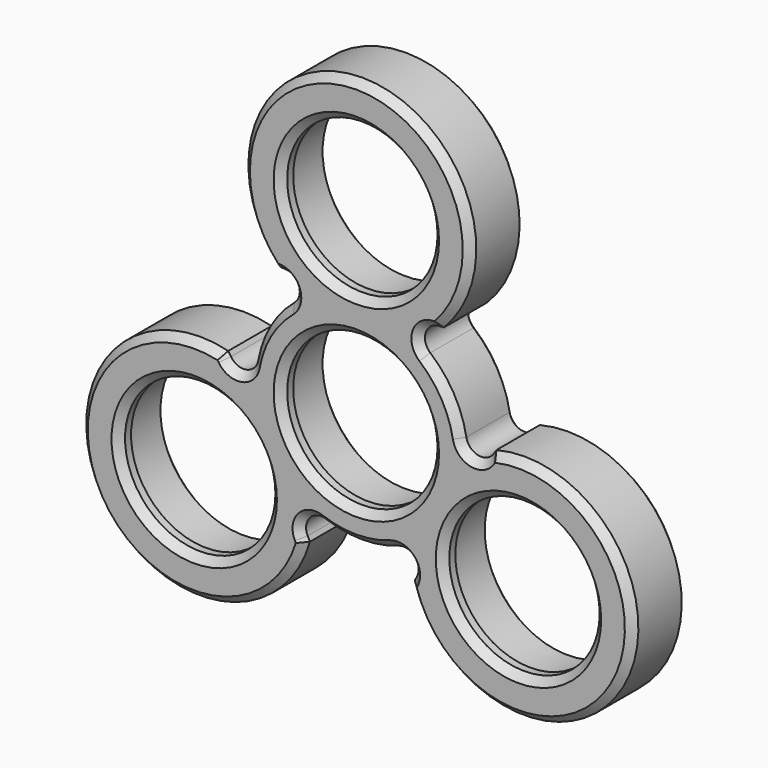
from build123d import *

# Parameters (mm, degrees)
F0_R     = 11.05
F1_DEPTH = 9.2
F2_R     = 11.05
F2_R_2   = 10
F3_DEPTH = 2
F4_R     = 2
F6_DEPTH = 25
F7_SIZE  = 1
F8_SIZE  = 1


with BuildPart() as f1:
    # F0 (on Front) → F1 (new body)
    with BuildSketch(Plane.XZ):
        with BuildLine():
            Line((-10.8594483096, 14.3268800737), (-2.4829795671, 13.8288579597))
            ThreePointArc((-2.4829795671, 13.8288579597), (-12.1676569232, 7.025), (-13.217632082, -4.7641055977))
            Line((-13.217632082, -4.7641055977), (-17.8371662556, 2.2411180703))
            ThreePointArc((-17.8371662556, 2.2411180703), (-34.6870755728, -20.0265924193), (-6.977717946, -16.5679981441))
            Line((-6.977717946, -16.5679981441), (-10.7346525149, -9.064752362))
            ThreePointArc((-10.7346525149, -9.064752362), (0, -14.05), (10.7346525149, -9.064752362))
            Line((10.7346525149, -9.064752362), (6.977717946, -16.5679981441))
            ThreePointArc((6.977717946, -16.5679981441), (34.6870755728, -20.0265924193), (17.8371662556, 2.2411180703))
            Line((17.8371662556, 2.2411180703), (13.217632082, -4.7641055977))
            ThreePointArc((13.217632082, -4.7641055977), (12.1676569232, 7.025), (2.4829795671, 13.8288579597))
            Line((2.4829795671, 13.8288579597), (10.8594483096, 14.3268800737))
            ThreePointArc((10.8594483096, 14.3268800737), (0, 40.0531848387), (-10.8594483096, 14.3268800737))
        make_face()
        with Locations((-21.5623582929, -12.4490333648)):
            Circle(F0_R, mode=Mode.SUBTRACT)
        with Locations((21.5623582929, -12.4490333648)):
            Circle(F0_R, mode=Mode.SUBTRACT)
        Circle(F0_R, mode=Mode.SUBTRACT)
        with Locations((0, 24.8980667296)):
            Circle(F0_R, mode=Mode.SUBTRACT)
    extrude(amount=F1_DEPTH)

    # F2 (on face) → F3 (join)
    with BuildSketch(Plane.XZ.offset(9.2)):
        with Locations((0, 24.8980667296)):
            Circle(F2_R)
        with Locations((0, 24.8980667296)):
            Circle(F2_R_2, mode=Mode.SUBTRACT)
        with Locations((-21.5623582929, -12.4490333648)):
            Circle(F2_R)
        with Locations((-21.5623582929, -12.4490333648)):
            Circle(F2_R_2, mode=Mode.SUBTRACT)
        with Locations((21.5623582929, -12.4490333648)):
            Circle(F2_R)
        with Locations((21.5623582929, -12.4490333648)):
            Circle(F2_R_2, mode=Mode.SUBTRACT)
        Circle(F2_R)
        Circle(F2_R_2, mode=Mode.SUBTRACT)
    extrude(amount=-F3_DEPTH)

    # F4
    f4_edges = [f1.edges().sort_by_distance(p)[0] for p in [
        (2.48298, -4.6, 13.828858),
        (-2.48298, -4.6, 13.828858),
        (-13.217632, -4.6, -4.764106),
        (-10.734653, -4.6, -9.064752),
        (10.734653, -4.6, -9.064752),
        (13.217632, -4.6, -4.764106),
    ]]
    fillet(f4_edges, radius=F4_R)

    # F5 (on face) → F6 (cut)
    with BuildSketch(Plane.XZ.offset(9.2)):
        with BuildLine():
            Line((0, 18.9108662307), (1.7659365324, 21.1738422452))
            ThreePointArc((1.7659365324, 21.1738422452), (0, 24.9152206672), (-1.7659365324, 21.1738422452))
            Line((-1.7659365324, 21.1738422452), (0, 18.9108662307))
        make_face()
        with BuildLine():
            Line((-16.3772905634, -9.4554331154), (-19.2200535463, -9.057575224))
            ThreePointArc((-19.2200535463, -9.057575224), (-21.5772140387, -12.4576103336), (-17.4541170138, -12.1162670212))
            Line((-17.4541170138, -12.1162670212), (-16.3772905634, -9.4554331154))
        make_face()
        with BuildLine():
            Line((16.3772905634, -9.4554331154), (17.4541170138, -12.1162670212))
            ThreePointArc((17.4541170138, -12.1162670212), (21.5772140387, -12.4576103336), (19.2200535463, -9.057575224))
            Line((19.2200535463, -9.057575224), (16.3772905634, -9.4554331154))
        make_face()
    extrude(amount=-F6_DEPTH, mode=Mode.SUBTRACT)

    # F7
    f7_edges = [f1.edges().sort_by_distance(p)[0] for p in [
        (10.530932, 0, 14.307348),
        (8.422362, 0, 12.919623),
        (0, 0, 40.053185),
        (12.167657, 0, 7.025),
        (-10.530932, 0, 14.307348),
        (15.399903, 0, 0.834168),
        (-8.422362, 0, 12.919623),
        (17.655993, 0, 1.96638),
        (-12.167657, 0, 7.025),
        (34.687076, 0, -20.026592),
        (-15.399903, 0, 0.834168),
        (7.125061, 0, -16.273728),
        (-17.655993, 0, 1.96638),
        (6.977541, 0, -13.753791),
        (-34.687076, 0, -20.026592),
        (0, 0, -14.05),
        (-7.125061, 0, -16.273728),
        (-6.977541, 0, -13.753791),
        (-32.612358, 0, -12.449033),
        (10.512358, 0, -12.449033),
        (-11.05, 0, 0),
        (-11.05, 0, 24.898067),
    ]]
    chamfer(f7_edges, length=F7_SIZE)

    # F8#2 (call 1 of 5: OpenCascade refuses the feature's edges together)
    f8_2_edges = [f1.edges().sort_by_distance(p)[0] for p in [
        (-31.562358, -9.2, -12.449033),
    ]]
    chamfer(f8_2_edges, length=F8_SIZE)

    # F8#3 (call 2 of 5)
    f8_3_edges = [f1.edges().sort_by_distance(p)[0] for p in [
        (11.562358, -9.2, -12.449033),
    ]]
    chamfer(f8_3_edges, length=F8_SIZE)

    # F8#4 (call 3 of 5)
    f8_4_edges = [f1.edges().sort_by_distance(p)[0] for p in [
        (-10, -9.2, 0),
    ]]
    chamfer(f8_4_edges, length=F8_SIZE)

    # F8#5 (call 4 of 5)
    f8_5_edges = [f1.edges().sort_by_distance(p)[0] for p in [
        (-10, -9.2, 24.898067),
    ]]
    chamfer(f8_5_edges, length=F8_SIZE)

    # F8 (call 5 of 5)
    f8_edges = [f1.edges().sort_by_distance(p)[0] for p in [
        (10.530932, -9.2, 14.307348),
        (8.422362, -9.2, 12.919623),
        (0, -9.2, 40.053185),
        (12.167657, -9.2, 7.025),
        (-10.530932, -9.2, 14.307348),
        (15.399903, -9.2, 0.834168),
        (-8.422362, -9.2, 12.919623),
        (17.655993, -9.2, 1.96638),
        (-12.167657, -9.2, 7.025),
        (34.687076, -9.2, -20.026592),
        (-15.399903, -9.2, 0.834168),
        (7.125061, -9.2, -16.273728),
        (-17.655993, -9.2, 1.96638),
        (6.977541, -9.2, -13.753791),
        (-34.687076, -9.2, -20.026592),
        (0, -9.2, -14.05),
        (-7.125061, -9.2, -16.273728),
        (-6.977541, -9.2, -13.753791),
    ]]
    chamfer(f8_edges, length=F8_SIZE)


solid = f1.part
